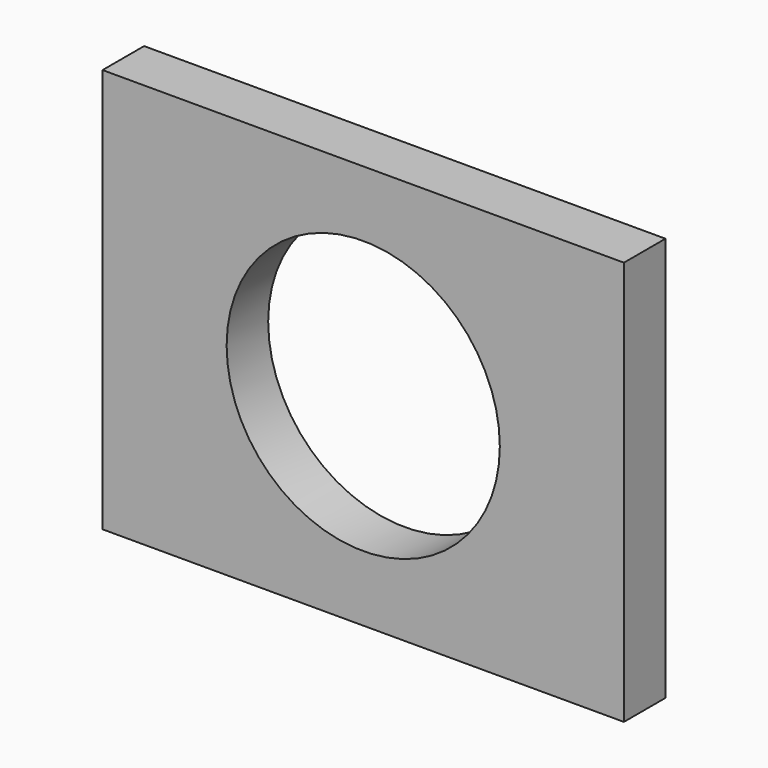
from build123d import *

# Parameters (mm, degrees)
F0_W      = 250.982642
F0_H      = 194.626228
F0_R      = 65.754774
F1_DEPTH  = 25
F1_FACE_W = 250.982642
F1_FACE_H = 194.626228
F1_FACE_R = 65.754774
F2_DEPTH  = 25


with BuildPart() as f1:
    # F0 (on Front) → F1 (new body)
    with BuildSketch(Plane.XZ):
        Rectangle(F0_W, F0_H)
        Circle(F0_R, mode=Mode.SUBTRACT)
    extrude(amount=F1_DEPTH)

    # F1_face (on face) → F2 (join)
    with BuildSketch(Plane(origin=(0, 0, 0), x_dir=(1, 0, 0), z_dir=(0, 1, 0))):
        Rectangle(F1_FACE_W, F1_FACE_H)
        Circle(F1_FACE_R, mode=Mode.SUBTRACT)
    extrude(amount=-F2_DEPTH)


solid = f1.part
